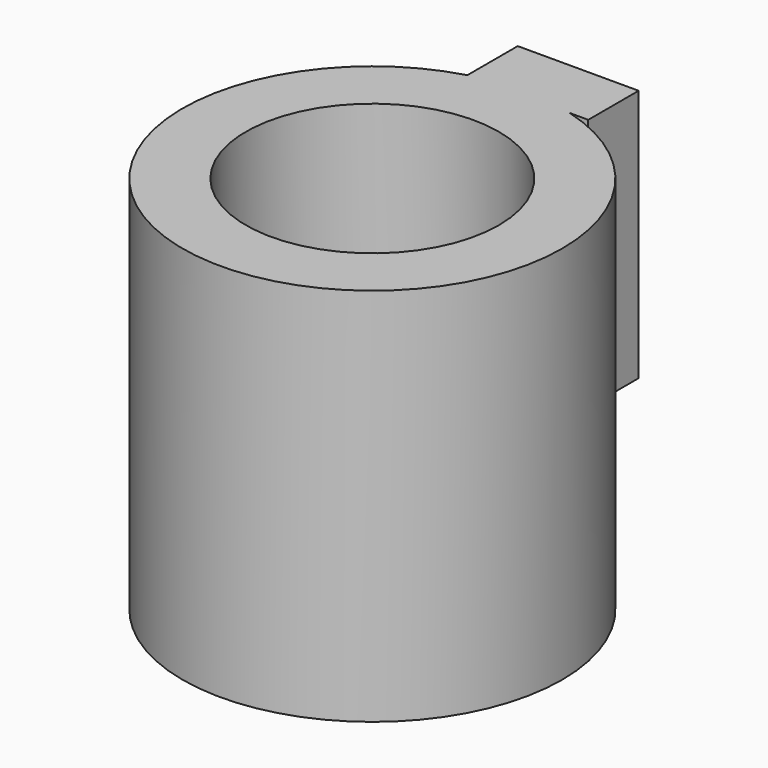
from build123d import *

# Parameters (mm, degrees)
F0_R     = 38.1
F1_DEPTH = 76.2
F2_R     = 25.4
F3_DEPTH = 50.8
F4_W     = 24.265683
F4_H     = 12.642243
F5_DEPTH = 50.8


with BuildPart() as f1:
    # F0 (on Top) → F1 (new body)
    with BuildSketch(Plane.XY):
        Circle(F0_R)
    extrude(amount=F1_DEPTH)

    # F2 (on face) → F3 (cut)
    with BuildSketch(Plane.XY.offset(76.2)):
        Circle(F2_R)
    extrude(amount=-F3_DEPTH, mode=Mode.SUBTRACT)

    # F4 (on face) → F5 (join)
    with BuildSketch(Plane.XY.offset(76.2)):
        with Locations((1.853868, 43.008349)):
            Rectangle(F4_W, F4_H)
    extrude(amount=-F5_DEPTH)


solid = f1.part
